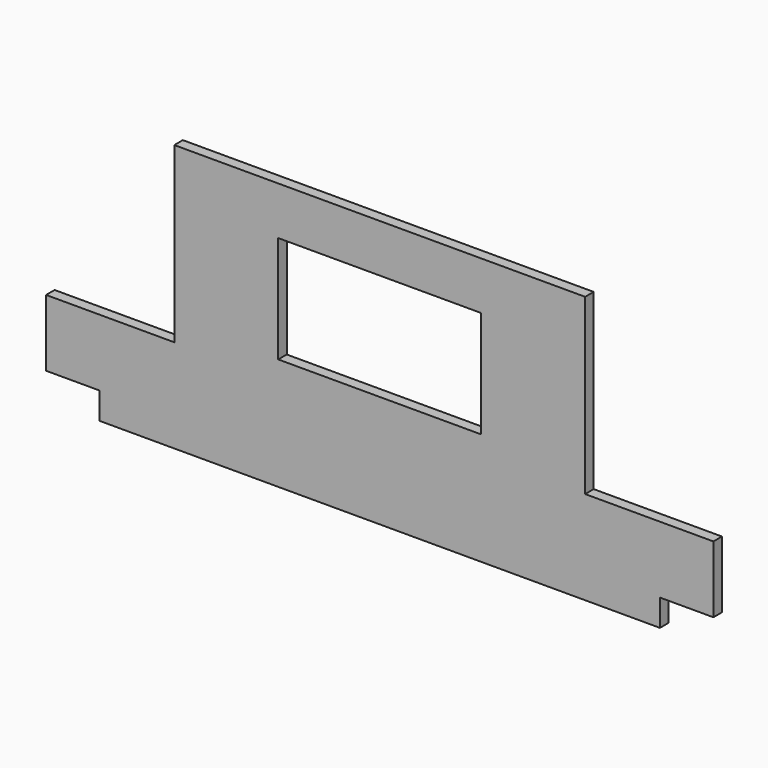
from build123d import *

# Parameters (mm, degrees)
F0_W     = 249.8
F0_H     = 100
F1_DEPTH = 4
F2_W     = 20
F2_H     = 10
F3_DEPTH = 25
F4_W     = 76
F4_H     = 40
F4_W_2   = 48
F4_H_2   = 65
F5_DEPTH = 25
F6_W     = 3.2
F6_H     = 20
F7_DEPTH = 13
F8_SIZE  = 12.1
F9_R     = 1


with BuildPart() as f1:
    # F0 (on Front) → F1 (new body)
    with BuildSketch(Plane.XZ):
        with Locations((45.308904, 9.584513)):
            Rectangle(F0_W, F0_H)
    extrude(amount=F1_DEPTH)

    # F2 (on face) → F3 (cut)
    with BuildSketch(Plane.XZ.offset(4)):
        with Locations((160.208904, -35.415487)):
            Rectangle(F2_W, F2_H)
        with Locations((-69.591096, -35.415487)):
            Rectangle(F2_W, F2_H)
    extrude(amount=-F3_DEPTH, mode=Mode.SUBTRACT)

    # F4 (on face) → F5 (cut)
    with BuildSketch(Plane.XZ.offset(4)):
        with Locations((45.308904, 21.584513)):
            Rectangle(F4_W, F4_H)
        with Locations((-55.591096, 27.084513)):
            Rectangle(F4_W_2, F4_H_2)
        with Locations((146.208904, 27.084513)):
            Rectangle(F4_W_2, F4_H_2)
    extrude(amount=-F5_DEPTH, mode=Mode.SUBTRACT)

    # F6 (on face) → F7 (join)
    with BuildSketch(Plane(origin=(0, 0, 0), x_dir=(-1, 0, 0), z_dir=(0, 1, 0))):
        with Locations((-123.808904, -17.415487)):
            Rectangle(F6_W, F6_H)
    extrude(amount=F7_DEPTH)

    # F8
    f8_edges = [f1.edges().sort_by_distance(p)[0] for p in [
        (123.808904, 13, -7.415487),
    ]]
    chamfer(f8_edges, length=F8_SIZE)

    # F9
    f9_edges = [f1.edges().sort_by_distance(p)[0] for p in [
        (123.808904, 13, -27.415487),
    ]]
    fillet(f9_edges, radius=F9_R)


solid = f1.part
